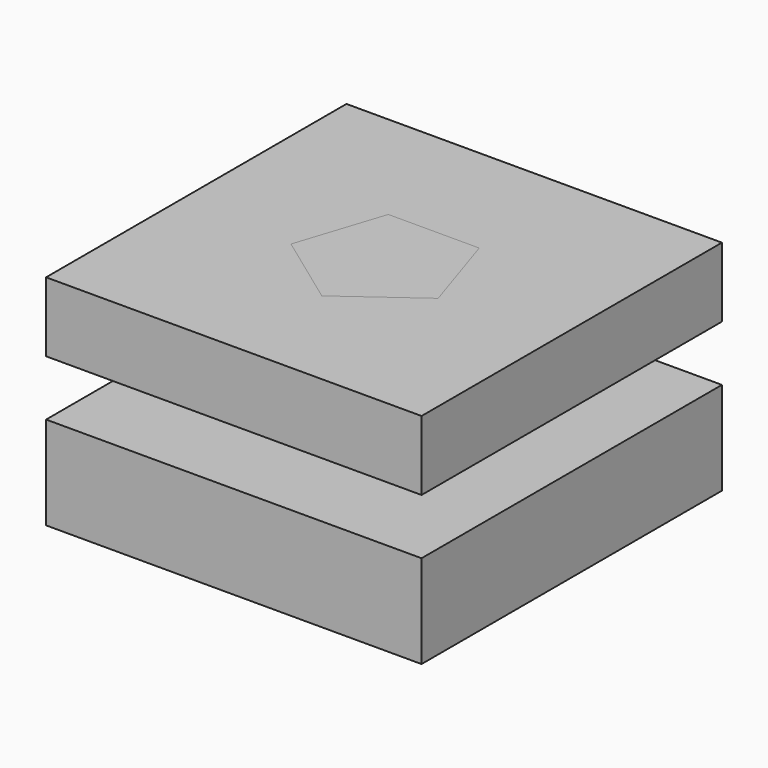
from build123d import *

# Parameters (mm, degrees)
F5_DEPTH       = 40
F6_DEPTH       = 120
F7_COUNT       = 5
F7_ANGLE       = 288
F8_ANGLE       = 180
F9_ANGLE       = 36
F11_W          = 300
F11_H          = 300
F12_DEPTH      = 61.7444068193
F12_DEPTH_BACK = 12.7
F14_START      = -106.2278673053
F14_DEPTH      = 55.5755315373


with BuildPart() as f5:
    # F0 (on Top) → F5 (new body)
    with BuildSketch(Plane.XY):
        Polygon((58.7785252292, 19.0983005625), (0, 61.803398875), (-58.7785252292, 19.0983005625), (-36.3271264003, -50), (36.3271264003, -50), align=None)
    extrude(amount=F5_DEPTH)


with BuildPart() as f6:
    # F3 (on 3pt) → F6 (new body)
    with BuildSketch(Plane(origin=(0, -39.999999984, -20.000000012), x_dir=(1, 0, 0), z_dir=(0, -0.8944271908, -0.4472135959))):
        Polygon((-36.3271264003, 22.3606797929), (36.3271264003, 22.3606797929), (58.7785252292, 91.4589803554), (0, 134.1640786679), (-58.7785252292, 91.4589803554), align=None)
    extrude(amount=-F6_DEPTH)


with BuildPart() as f7_1:
    # F7: instance of F6
    add(f6.part.rotate(Axis((0, 0, 25.4806555621), (0, 0, 1)), 1 * F7_ANGLE / (F7_COUNT - 1)))


with BuildPart() as f7_2:
    # F7: instance of F6
    add(f6.part.rotate(Axis((0, 0, 25.4806555621), (0, 0, 1)), 2 * F7_ANGLE / (F7_COUNT - 1)))


with BuildPart() as f7_3:
    # F7: instance of F6
    add(f6.part.rotate(Axis((0, 0, 25.4806555621), (0, 0, 1)), 3 * F7_ANGLE / (F7_COUNT - 1)))


with BuildPart() as f7_4:
    # F7: instance of F6
    add(f6.part.rotate(Axis((0, 0, 25.4806555621), (0, 0, 1)), 4 * F7_ANGLE / (F7_COUNT - 1)))


with BuildPart() as f8_1:
    # F8: copy of F5
    add(f5.part.rotate(Axis((0, -14.3237254381, 80.9016994213), (0, 1, 0)), F8_ANGLE))


with BuildPart() as f8_2:
    # F8: copy of F6
    add(f6.part.rotate(Axis((0, -14.3237254381, 80.9016994213), (0, 1, 0)), F8_ANGLE))


with BuildPart() as f8_3:
    # F8: copy of F7_1
    add(f7_1.part.rotate(Axis((0, -14.3237254381, 80.9016994213), (0, 1, 0)), F8_ANGLE))


with BuildPart() as f8_4:
    # F8: copy of F7_2
    add(f7_2.part.rotate(Axis((0, -14.3237254381, 80.9016994213), (0, 1, 0)), F8_ANGLE))


with BuildPart() as f8_5:
    # F8: copy of F7_3
    add(f7_3.part.rotate(Axis((0, -14.3237254381, 80.9016994213), (0, 1, 0)), F8_ANGLE))


with BuildPart() as f8_6:
    # F8: copy of F7_4
    add(f7_4.part.rotate(Axis((0, -14.3237254381, 80.9016994213), (0, 1, 0)), F8_ANGLE))


with BuildPart() as f8_4_1:
    # F9: moved
    add(f8_4.part.rotate(Axis((0, 0, 25.4806555621), (0, 0, 1)), F9_ANGLE))


with BuildPart() as f8_3_1:
    # F9: moved
    add(f8_3.part.rotate(Axis((0, 0, 25.4806555621), (0, 0, 1)), F9_ANGLE))


with BuildPart() as f8_2_1:
    # F9: moved
    add(f8_2.part.rotate(Axis((0, 0, 25.4806555621), (0, 0, 1)), F9_ANGLE))


with BuildPart() as f8_6_1:
    # F9: moved
    add(f8_6.part.rotate(Axis((0, 0, 25.4806555621), (0, 0, 1)), F9_ANGLE))


with BuildPart() as f8_5_1:
    # F9: moved
    add(f8_5.part.rotate(Axis((0, 0, 25.4806555621), (0, 0, 1)), F9_ANGLE))


with BuildPart() as f8_1_1:
    # F9: moved
    add(f8_1.part.rotate(Axis((0, 0, 25.4806555621), (0, 0, 1)), F9_ANGLE))


with BuildPart() as f5_1:
    add(f5.part)

    # F10: union F6, F7_1, F7_2, F7_3, F7_4, F8_1, F8_2, F8_3, F8_4, F8_5, F8_6
    add(f6.part)
    add(f7_1.part)
    add(f7_2.part)
    add(f7_3.part)
    add(f7_4.part)
    add(f8_1_1.part)
    add(f8_2_1.part)
    add(f8_3_1.part)
    add(f8_4_1.part)
    add(f8_5_1.part)
    add(f8_6_1.part)


with BuildPart() as f12:
    # F11 (on face) → F12 (new body, two sides)
    with BuildSketch(Plane(origin=(0, 0, 0), x_dir=(1, 0, 0), z_dir=(0, 0, -1))) as f12_sk:
        with Locations((0, -0.3129541874)):
            Rectangle(F11_W, F11_H)
        Polygon((58.7785252292, -19.0983005625), (0, -61.803398875), (-58.7785252292, -19.0983005625), (-36.3271264003, 50), (36.3271264003, 50), align=None, mode=Mode.SUBTRACT)
        Polygon((-58.7785252292, -19.0983005625), (0, -61.803398875), (58.7785252292, -19.0983005625), (36.3271264003, 50), (-36.3271264003, 50), align=None)
    extrude(amount=-F12_DEPTH)
    extrude(f12_sk.sketch, amount=F12_DEPTH_BACK)

    # F13: cut F5
    add(f5_1.part, mode=Mode.SUBTRACT)


with BuildPart() as f14:
    # F11 (on face) → F14 (new body)
    with BuildSketch(Plane(origin=(0, 0, 0), x_dir=(1, 0, 0), z_dir=(0, 0, -1)).offset(F14_START)):
        with Locations((0, -0.3129541874)):
            Rectangle(F11_W, F11_H)
    extrude(amount=-F14_DEPTH)

    # F15: cut F5
    add(f5_1.part, mode=Mode.SUBTRACT)


solid = Compound([f5_1.part, f12.part, f14.part])
